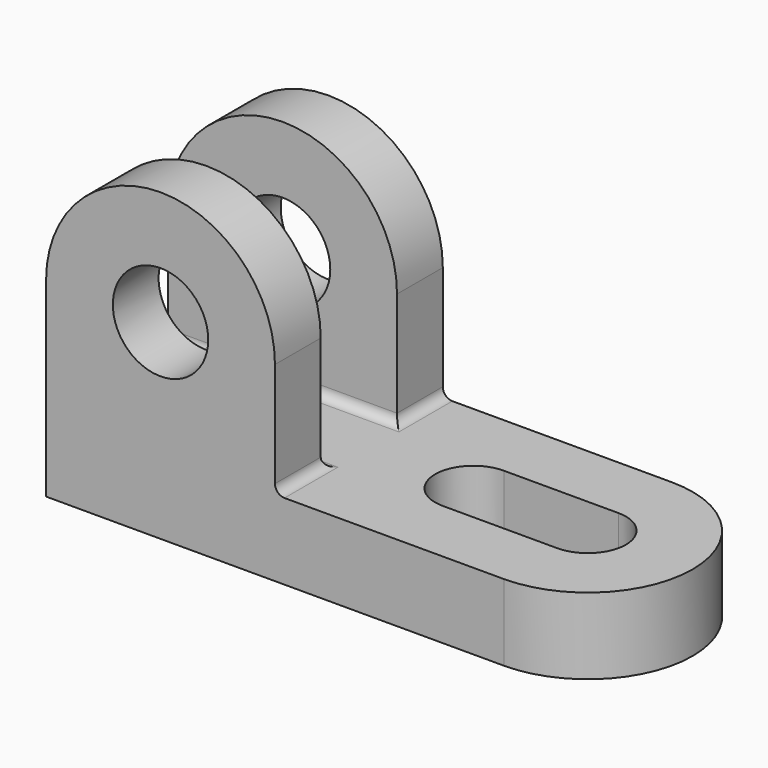
from build123d import *

# Parameters (mm, degrees)
F1_DEPTH = 406.4
F2_R     = 254
F3_DEPTH = 1117.6
F4_DEPTH = 812.8
F5_DEPTH = 304.8
F6_R     = 50.8


with BuildPart() as f1:
    # F0 (on Top) → F1 (new body)
    with BuildSketch(Plane.XY):
        with BuildLine():
            Line((0, 558.8), (0, -558.8))
            Line((0, -558.8), (2438.4, -558.8))
            ThreePointArc((2438.4, -558.8), (2997.2, 0), (2438.4, 558.8))
            Line((2438.4, 558.8), (0, 558.8))
        make_face()
        with BuildLine():
            Line((1828.8, 203.2), (2438.4, 203.2))
            ThreePointArc((2438.4, 203.2), (2641.6, 0), (2438.4, -203.2))
            Line((2438.4, -203.2), (1828.8, -203.2))
            ThreePointArc((1828.8, -203.2), (1625.6, 0), (1828.8, 203.2))
        make_face(mode=Mode.SUBTRACT)
    extrude(amount=F1_DEPTH)

    # F2 (on face) → F3 (join)
    with BuildSketch(Plane.XZ.offset(558.8)):
        with BuildLine():
            ThreePointArc((1219.2, 1016), (609.6, 1625.6), (0, 1016))
            Line((0, 1016), (0, 406.4))
            Line((0, 406.4), (1219.2, 406.4))
            Line((1219.2, 406.4), (1219.2, 1016))
        make_face()
        with Locations((609.6, 1016)):
            Circle(F2_R, mode=Mode.SUBTRACT)
    extrude(amount=-F3_DEPTH)

    # F2 (on face) → F4 (cut)
    with BuildSketch(Plane.XZ.offset(558.8)):
        with BuildLine():
            ThreePointArc((1219.2, 1016), (609.6, 1625.6), (0, 1016))
            Line((0, 1016), (0, 406.4))
            Line((0, 406.4), (1219.2, 406.4))
            Line((1219.2, 406.4), (1219.2, 1016))
        make_face()
        with Locations((609.6, 1016)):
            Circle(F2_R, mode=Mode.SUBTRACT)
    extrude(amount=-F4_DEPTH, mode=Mode.SUBTRACT)

    # F2 (on face) → F5 (join)
    with BuildSketch(Plane.XZ.offset(558.8)):
        with BuildLine():
            ThreePointArc((1219.2, 1016), (609.6, 1625.6), (0, 1016))
            Line((0, 1016), (0, 406.4))
            Line((0, 406.4), (1219.2, 406.4))
            Line((1219.2, 406.4), (1219.2, 1016))
        make_face()
        with Locations((609.6, 1016)):
            Circle(F2_R, mode=Mode.SUBTRACT)
    extrude(amount=-F5_DEPTH)

    # F6
    f6_edges = [f1.edges().sort_by_distance(p)[0] for p in [
        (1219.2, -406.4, 406.4),
        (1219.2, 406.4, 406.4),
        (609.6, -254, 406.4),
        (609.6, 254, 406.4),
    ]]
    fillet(f6_edges, radius=F6_R)


solid = f1.part
